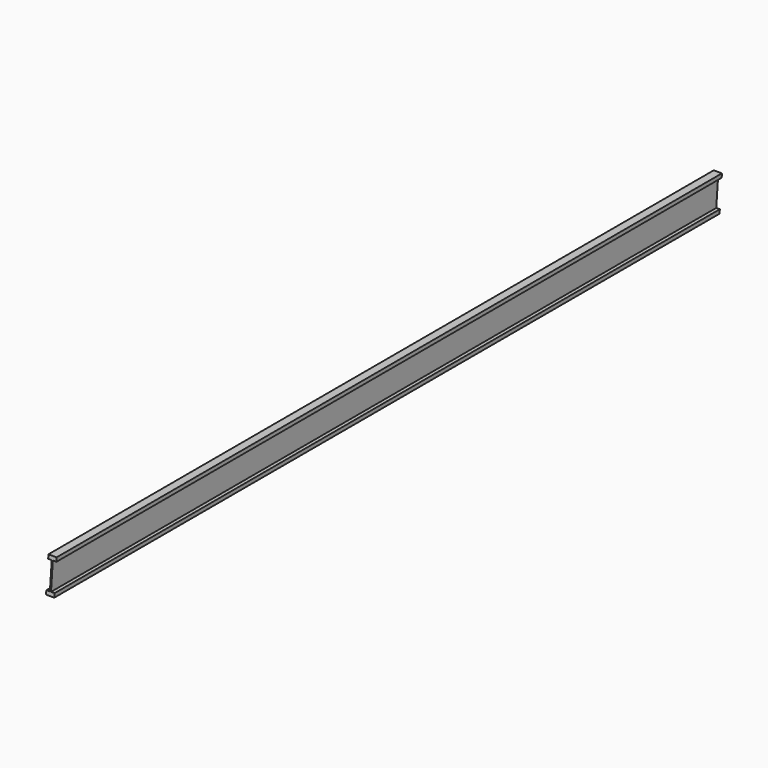
from build123d import *

# Parameters (mm, degrees)
F1_DEPTH = 7620
F3_DEPTH = 72.10199
F5_DEPTH = 72.10199


with BuildPart() as f1:
    # F0 (on Front) → F1 (new body)
    with BuildSketch(Plane.XZ):
        Polygon((0, 33.655), (0, 0), (72.10099, 0), (72.10099, 33.655), (40.812995, 33.655), (40.812995, 267.97), (72.10099, 267.97), (72.10099, 301.625), (0, 301.625), (0, 267.97), (31.287995, 267.97), (31.287995, 33.655), align=None)
    extrude(amount=F1_DEPTH)

    # F2 (on face) → F3 (cut, through all)
    with BuildSketch(Plane.YZ.offset(72.10099)):
        Polygon((-7620, 301.625), (-7620, 0), (-7594.247673, 301.625), align=None)
    extrude(amount=-F3_DEPTH, mode=Mode.SUBTRACT)

    # F4 (on face) → F5 (cut, through all)
    with BuildSketch(Plane(origin=(0, 0, 0), x_dir=(0, -1, 0), z_dir=(-1, 0, 0))):
        Polygon((0, 0), (316.424917, 0), (290.672591, 301.625), (0, 301.625), align=None)
    extrude(amount=-F5_DEPTH, mode=Mode.SUBTRACT)


solid = f1.part
